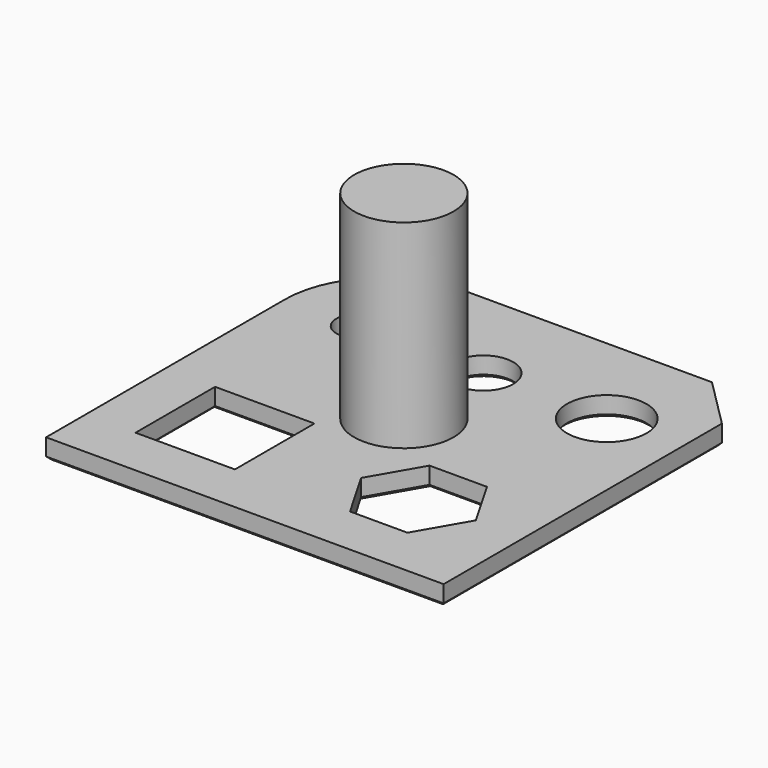
from build123d import *

# Parameters (mm, degrees)
F0_W     = 40
F0_H     = 40
F1_DEPTH = 2
F2_R     = 2
F2_R_2   = 3
F2_R_3   = 4
F2_W     = 10
F2_H     = 10
F3_DEPTH = 2
F4_R     = 10
F5_SIZE  = 5
F6_R     = 5
F7_DEPTH = 20
F8_SIZE  = 0.3


with BuildPart() as f1:
    # F0 (on Top) → F1 (new body)
    with BuildSketch(Plane.XY):
        Rectangle(F0_W, F0_H)
    extrude(amount=F1_DEPTH)

    # F2 (on face) → F3 (cut, through all)
    with BuildSketch(Plane.XY.offset(2)):
        with Locations((-12.800124, 10)):
            Circle(F2_R)
        with Locations((0, 10)):
            Circle(F2_R_2)
        with Locations((12.410274, 10)):
            Circle(F2_R_3)
        with Locations((-10, -10)):
            Rectangle(F2_W, F2_H)
        Polygon((12.308161, -4.941213), (6.534659, -4.941213), (3.647907, -9.941213), (6.534659, -14.941213), (12.308161, -14.941213), (15.194913, -9.941213), align=None)
    extrude(amount=-F3_DEPTH, mode=Mode.SUBTRACT)

    # F4
    f4_edges = [f1.edges().sort_by_distance(p)[0] for p in [
        (-20, 20, 1),
    ]]
    fillet(f4_edges, radius=F4_R)

    # F5
    f5_edges = [f1.edges().sort_by_distance(p)[0] for p in [
        (20, 20, 1),
    ]]
    chamfer(f5_edges, length=F5_SIZE)

    # F6 (on face) → F7 (join)
    with BuildSketch(Plane.XY.offset(2)):
        Circle(F6_R)
    extrude(amount=F7_DEPTH)

    # F8
    f8_edges = [f1.edges().sort_by_distance(p)[0] for p in [
        (2.5, 20, 0),
        (17.5, 17.5, 0),
        (-17.071068, 17.071068, 0),
        (20, -2.5, 0),
        (-20, -5, 0),
        (0, -20, 0),
        (-10, -5, 0),
        (-15, -10, 0),
        (-10, -15, 0),
        (-5, -10, 0),
        (9.42141, -4.941213, 0),
        (5.091283, -7.441213, 0),
        (5.091283, -12.441213, 0),
        (9.42141, -14.941213, 0),
        (13.751537, -12.441213, 0),
        (13.751537, -7.441213, 0),
        (-14.800124, 10, 0),
        (-3, 10, 0),
        (8.410274, 10, 0),
    ]]
    chamfer(f8_edges, length=F8_SIZE)


solid = f1.part
